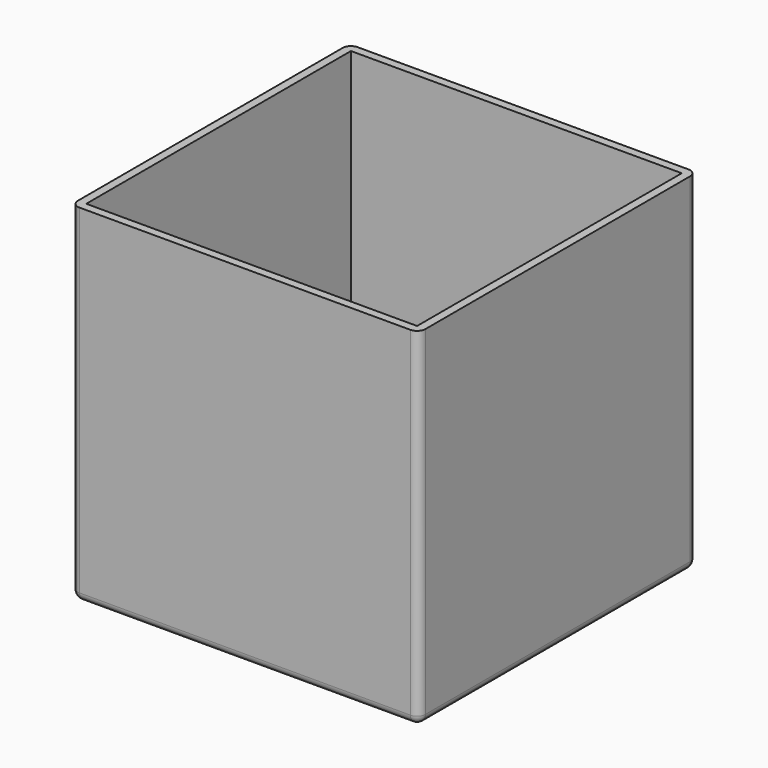
from build123d import *

# Parameters (mm, degrees)
F0_W     = 50
F0_H     = 50
F1_DEPTH = 50
F2_T     = -1.2
F3_R     = 1.2
F4_R     = 1.2


with BuildPart() as f1:
    # F0 (on Top) → F1 (new body)
    with BuildSketch(Plane.XY):
        with Locations((-25, 25)):
            Rectangle(F0_W, F0_H)
    extrude(amount=F1_DEPTH)

    # F2
    f2_openings = [f1.faces().sort_by_distance(p)[0] for p in [
        (-25, 25, 50),
    ]]
    offset(amount=F2_T, openings=f2_openings)

    # F3
    f3_edges = [f1.edges().sort_by_distance(p)[0] for p in [
        (-50, 50, 25),
        (-50, 0, 25),
        (0, 0, 25),
        (0, 50, 25),
    ]]
    fillet(f3_edges, radius=F3_R)

    # F4
    f4_edges = [f1.edges().sort_by_distance(p)[0] for p in [
        (-25, 50, 0),
        (-50, 25, 0),
        (0, 25, 0),
        (-25, 0, 0),
    ]]
    fillet(f4_edges, radius=F4_R)


solid = f1.part
